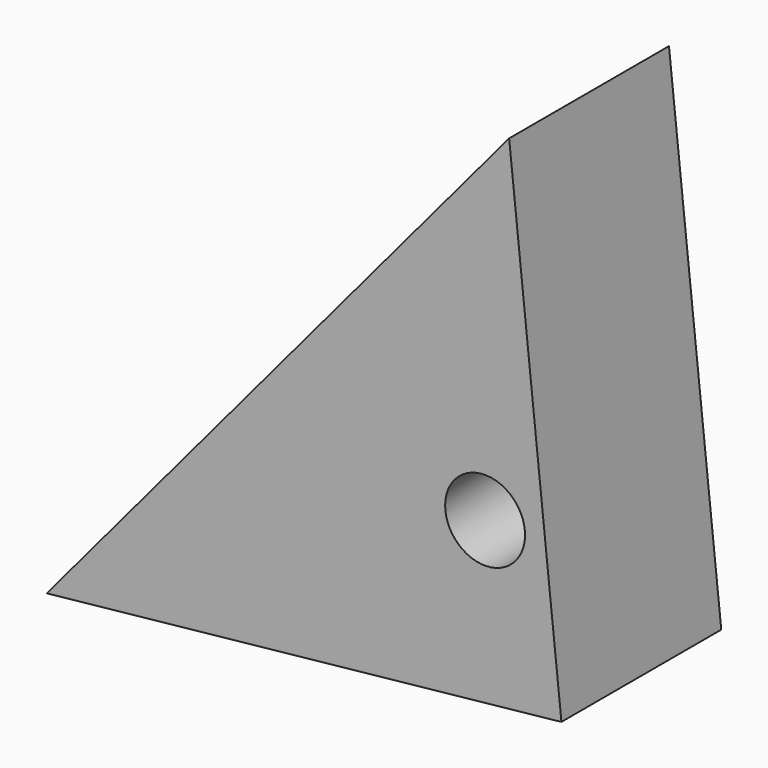
from build123d import *

# Parameters (mm, degrees)
F1_DEPTH = 10
F2_D     = 4
F2_DEPTH = 12
F2_TIP   = 1.2017212381


with BuildPart() as f1:
    # F0 (on Front) → F1 (new body)
    with BuildSketch(Plane.XZ):
        Polygon((-21.7069650015, 34.0466823065), (-24.3240841142, 58.9093186822), (-47.4683038283, 31.3349629541), align=None)
    extrude(amount=F1_DEPTH)

    # F2
    with Locations(Plane(origin=(0, 0, 0), x_dir=(1, 0, 0), z_dir=(0, 1, 0))):
        with Locations((-25.5279594826, -41.6886716532)):
            Hole(F2_D / 2, depth=F2_DEPTH)
            with Locations((0, 0, -(F2_DEPTH + F2_TIP / 2))):  # 118° drill point
                Cone(0, F2_D / 2, F2_TIP, mode=Mode.SUBTRACT)


solid = f1.part
